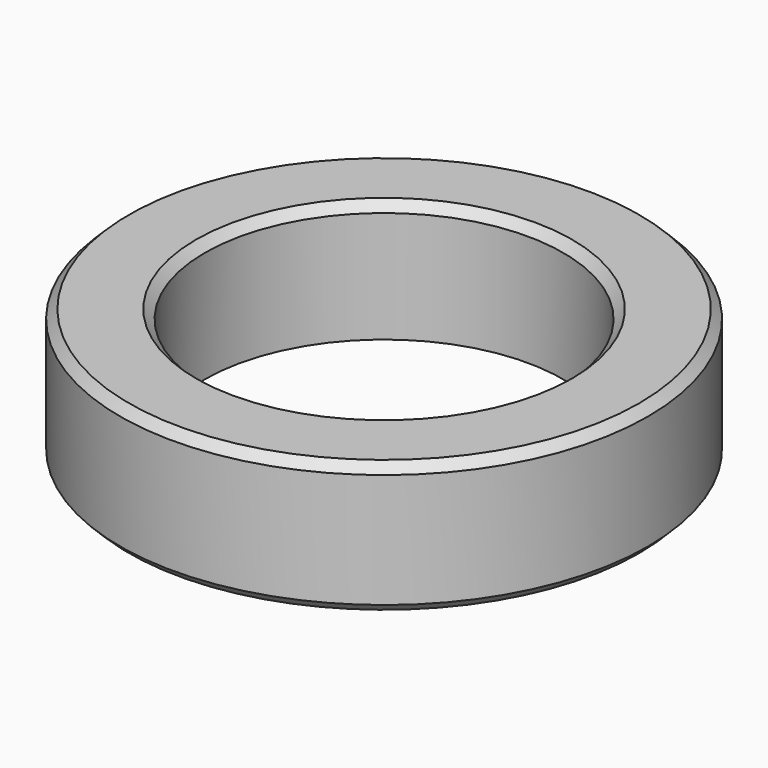
from build123d import *

# Parameters (mm, degrees)
F0_R     = 6
F0_R_2   = 4.075
F1_DEPTH = 3
F2_SIZE  = 0.2
F3_SIZE2 = 0.267949
F3_SIZE  = 1


with BuildPart() as f1:
    # F0 (on Top) → F1 (new body)
    with BuildSketch(Plane.XY):
        Circle(F0_R)
        Circle(F0_R_2, mode=Mode.SUBTRACT)
    extrude(amount=F1_DEPTH)

    # F2
    f2_edges = [f1.edges().sort_by_distance(p)[0] for p in [
        (-4.075, 0, 3),
        (-6, 0, 0),
        (-6, 0, 3),
    ]]
    chamfer(f2_edges, length=F2_SIZE)

    # F3
    f3_edges = [f1.edges().sort_by_distance(p)[0] for p in [
        (-4.075, 0, 0),
    ]]
    chamfer(f3_edges, length=F3_SIZE, length2=F3_SIZE2)


solid = f1.part
